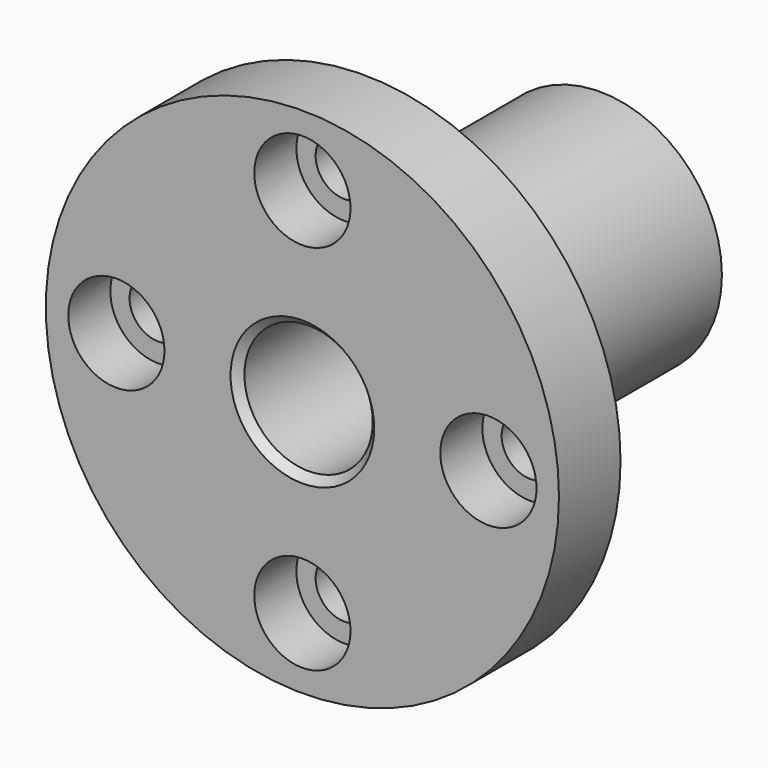
from build123d import *

# Parameters (mm, degrees)
F2_R     = 2.25
F3_DEPTH = 29.001
F4_R     = 3.75
F5_DEPTH = 4.1
F6_SIZE  = 0.6
F7_R     = 1


with BuildPart() as f1:
    # F0 (on Top) → F1 (revolve)
    with BuildSketch(Plane.XY):
        Polygon((5, 29), (5, 0), (20, 0), (20, 6), (9.5, 6), (9.5, 29), align=None)
        Polygon((5, 29), (5, 0), (20, 0), (20, 6), (9.5, 6), (9.5, 29), align=None)
    revolve(axis=Axis((0, 11.864793, 0), (0, 1, 0)))

    # F2 (on face) → F3 (cut, through all)
    with BuildSketch(Plane.XZ):
        with Locations((0, 14.5)):
            Circle(F2_R)
        with Locations((0, -14.5)):
            Circle(F2_R)
        with Locations((14.5, 0)):
            Circle(F2_R)
        with Locations((-14.5, 0)):
            Circle(F2_R)
    extrude(amount=-F3_DEPTH, mode=Mode.SUBTRACT)

    # F4 (on face) → F5 (cut)
    with BuildSketch(Plane.XZ):
        with Locations((0, 14.5)):
            Circle(F4_R)
        with Locations((14.5, 0)):
            Circle(F4_R)
        with Locations((0, -14.5)):
            Circle(F4_R)
        with Locations((-14.5, 0)):
            Circle(F4_R)
    extrude(amount=-F5_DEPTH, mode=Mode.SUBTRACT)

    # F6
    f6_edges = [f1.edges().sort_by_distance(p)[0] for p in [
        (5, 14.5, 0),
        (-5, 0, 0),
        (-5, 29, 0),
    ]]
    chamfer(f6_edges, length=F6_SIZE)

    # F7
    f7_edges = [f1.edges().sort_by_distance(p)[0] for p in [
        (-9.5, 6, 0),
    ]]
    fillet(f7_edges, radius=F7_R)


solid = f1.part
